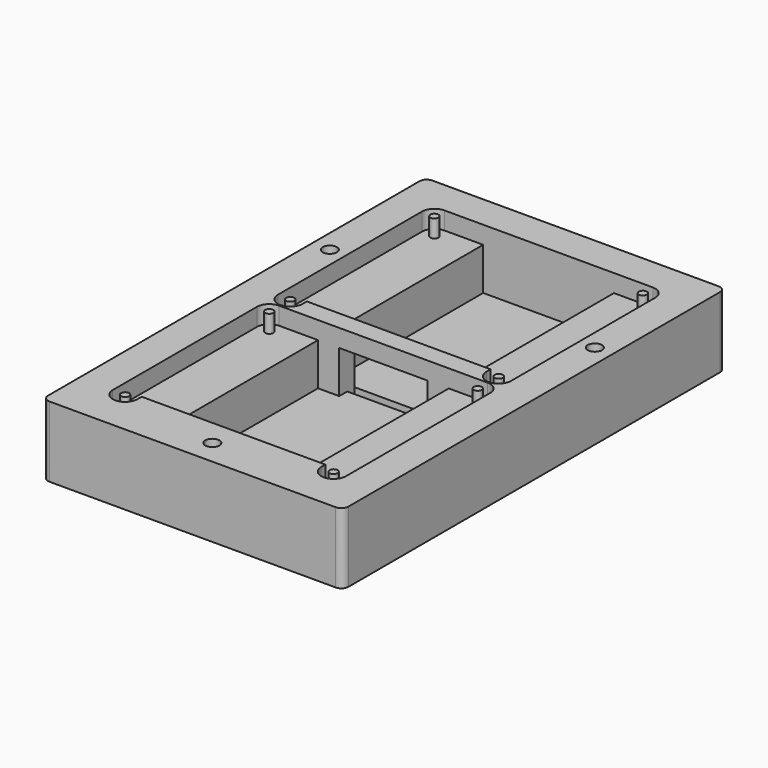
from build123d import *

# Parameters (mm, degrees)
SKETCH_R      = 2
SKETCH_W      = 25
SKETCH_H      = 2.6
PAD_DEPTH     = 3
SKETCH002_R   = 2
PAD001_DEPTH  = 12
SKETCH003_R   = 2
SKETCH003_R_2 = 1.15
PAD002_DEPTH  = 5


with BuildPart() as part:
    # Sketch → Pad (new body)
    with BuildSketch(Plane.XY):
        with BuildLine():
            Line((-42.5, 56.57), (-42.5, -74.85))
            ThreePointArc((-42.5, -74.85), (-41.914214, -76.264214), (-40.5, -76.85))
            Line((-40.5, -76.85), (40.5, -76.85))
            ThreePointArc((40.5, -76.85), (41.914214, -76.264214), (42.5, -74.85))
            Line((42.5, -74.85), (42.5, 56.57))
            ThreePointArc((42.5, 56.57), (41.914214, 57.984214), (40.5, 58.57))
            Line((40.5, 58.57), (-40.5, 58.57))
            ThreePointArc((-40.5, 58.57), (-41.914214, 57.984214), (-42.5, 56.57))
        make_face()
        with Locations((0, -69.85)):
            Circle(SKETCH_R, mode=Mode.SUBTRACT)
        with Locations((37.5, 18.57)):
            Circle(SKETCH_R, mode=Mode.SUBTRACT)
        with Locations((-37.5, 18.57)):
            Circle(SKETCH_R, mode=Mode.SUBTRACT)
        with Locations((0, -5.2)):
            Rectangle(SKETCH_W, SKETCH_H, mode=Mode.SUBTRACT)
    extrude(amount=PAD_DEPTH)

    # Sketch001 → Groove (revolve, cut)
    with BuildSketch(Plane.XZ):
        Polygon((-19.5, 0), (-18, 1.5), (-16.5, 0), align=None)
    revolve(axis=Axis((0, 0, 0), (0, 0, 1)), mode=Mode.SUBTRACT)

    # Sketch002 (on Face5 of Groove) → Pad001 (join)
    with BuildSketch(Plane.XY.offset(3)):
        with BuildLine():
            Line((-42.5, 56.57), (-42.5, -74.85))
            ThreePointArc((-42.5, -74.85), (-41.914214, -76.264214), (-40.5, -76.85))
            Line((-40.5, -76.85), (40.5, -76.85))
            ThreePointArc((40.5, -76.85), (41.914214, -76.264214), (42.5, -74.85))
            Line((42.5, -74.85), (42.5, 56.57))
            ThreePointArc((42.5, 56.57), (41.914214, 57.984214), (40.5, 58.57))
            Line((40.5, 58.57), (-40.5, 58.57))
            ThreePointArc((-40.5, 58.57), (-41.914214, 57.984214), (-42.5, 56.57))
        make_face()
        with Locations((-37.5, 18.57)):
            Circle(SKETCH002_R, mode=Mode.SUBTRACT)
        with Locations((37.5, 18.57)):
            Circle(SKETCH002_R, mode=Mode.SUBTRACT)
        with Locations((0, -69.85)):
            Circle(SKETCH002_R, mode=Mode.SUBTRACT)
        Polygon((-18.5, -62.35), (18.5, -62.35), (18.5, -9.35), (12.5, -9.35), (12.5, -3.93), (18.5, -3.93), (18.5, 49.07), (-18.5, 49.07), (-18.5, -3.93), (-12.5, -3.93), (-12.5, -9.35), (-18.5, -9.35), align=None, mode=Mode.SUBTRACT)
    extrude(amount=PAD001_DEPTH)

    # Sketch003 (on Face17 of Pad001) → Pad002 (join)
    with BuildSketch(Plane.XY.offset(15)):
        with BuildLine():
            Line((-42.5, 56.57), (-42.5, -74.85))
            ThreePointArc((-42.5, -74.85), (-41.914214, -76.264214), (-40.5, -76.85))
            Line((-40.5, -76.85), (40.5, -76.85))
            ThreePointArc((40.5, -76.85), (41.914214, -76.264214), (42.5, -74.85))
            Line((42.5, -74.85), (42.5, 56.57))
            ThreePointArc((42.5, 56.57), (41.914214, 57.984214), (40.5, 58.57))
            Line((40.5, 58.57), (-40.5, 58.57))
            ThreePointArc((-40.5, 58.57), (-41.914214, 57.984214), (-42.5, 56.57))
        make_face()
        with Locations((-37.5, 18.57)):
            Circle(SKETCH003_R, mode=Mode.SUBTRACT)
        with Locations((37.5, 18.57)):
            Circle(SKETCH003_R, mode=Mode.SUBTRACT)
        with Locations((0, -69.85)):
            Circle(SKETCH003_R, mode=Mode.SUBTRACT)
        with BuildLine():
            Line((-33, 45.57), (-33, -5.43))
            ThreePointArc((-33, -5.43), (-29.5, -8.93), (-26, -5.43))
            Line((-26, -5.43), (-26, -3.93))
            Line((-26, -3.93), (26, -3.93))
            Line((26, -3.93), (26, -5.43))
            ThreePointArc((26, -5.43), (29.5, -8.93), (33, -5.43))
            Line((33, -5.43), (33, 45.57))
            ThreePointArc((33, 45.57), (31.974874, 48.044874), (29.5, 49.07))
            Line((29.5, 49.07), (-29.5, 49.07))
            ThreePointArc((-29.5, 49.07), (-31.974874, 48.044874), (-33, 45.57))
        make_face(mode=Mode.SUBTRACT)
        with BuildLine():
            Line((-33, -12.85), (-33, -63.85))
            ThreePointArc((-33, -63.85), (-29.5, -67.35), (-26, -63.85))
            Line((-26, -63.85), (-26, -62.35))
            Line((-26, -62.35), (25.967625, -62.35))
            Line((25.967625, -62.35), (26.000776, -63.923713))
            ThreePointArc((26.000776, -63.923713), (29.536859, -67.349806), (33, -63.85))
            Line((33, -63.85), (33, -12.85))
            ThreePointArc((33, -12.85), (31.974874, -10.375126), (29.5, -9.35))
            Line((29.5, -9.35), (-29.5, -9.35))
            ThreePointArc((-29.5, -9.35), (-31.974874, -10.375126), (-33, -12.85))
        make_face(mode=Mode.SUBTRACT)
        with Locations((-29.5, 45.57)):
            Circle(SKETCH003_R_2)
        with Locations((29.5, 45.57)):
            Circle(SKETCH003_R_2)
        with Locations((-29.5, -5.43)):
            Circle(SKETCH003_R_2)
        with Locations((29.5, -12.85)):
            Circle(SKETCH003_R_2)
        with Locations((29.5, -63.85)):
            Circle(SKETCH003_R_2)
        with Locations((-29.5, -63.85)):
            Circle(SKETCH003_R_2)
        with Locations((-29.5, -12.85)):
            Circle(SKETCH003_R_2)
        with Locations((29.5, -5.43)):
            Circle(SKETCH003_R_2)
    extrude(amount=PAD002_DEPTH)


solid = part.part
